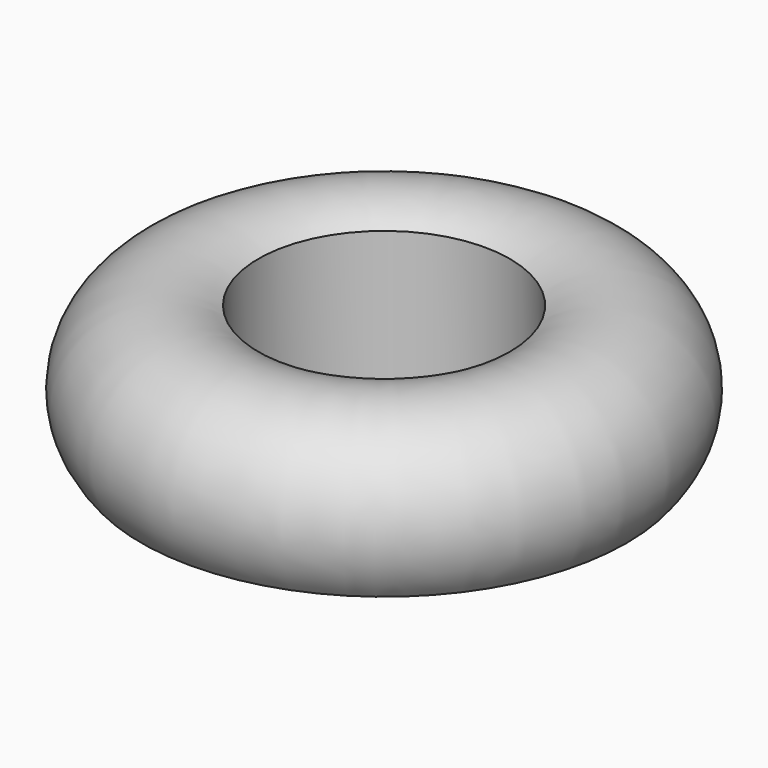
from build123d import *


with BuildPart() as f2:
    # F0 (on Front) → F2 (revolve)
    with BuildSketch(Plane.XZ):
        with BuildLine():
            ThreePointArc((19.237377, 0), (18.998285, 19.134216), (0, 21.423442))
            Line((0, 21.423442), (0, 0))
            Line((0, 0), (19.237377, 0))
        make_face()
    revolve(axis=Axis((-20.694755, 0, 3.060492), (0, 0, -1)))


solid = f2.part
